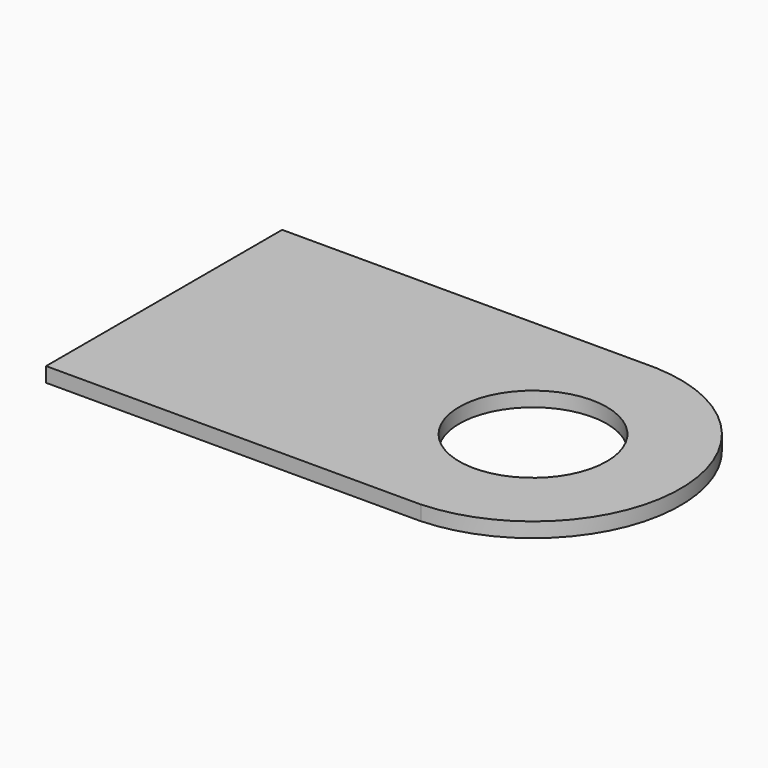
from build123d import *

# Parameters (mm, degrees)
CYLINDER011_R     = 0.5
CYLINDER011_DEPTH = 0.1
BOX006_W          = 2.54
BOX006_H          = 2
BOX006_DEPTH      = 0.1
CYLINDER010_R     = 0.5
CYLINDER010_DEPTH = 0.1
CYLINDER009_R     = 1
CYLINDER009_DEPTH = 0.1


with BuildPart() as cylinder011:
    # Cylinder011 → Cylinder011 (new body)
    with BuildSketch(Plane.XY.offset(1)):
        Circle(CYLINDER011_R)
    extrude(amount=CYLINDER011_DEPTH)


with BuildPart() as cut008:
    # Box006 → Box006 (new body)
    with BuildSketch(Plane(origin=(-2.5, -1, 1), x_dir=(1, 0, 0), z_dir=(0, 0, 1))):
        with Locations((1.27, 1)):
            Rectangle(BOX006_W, BOX006_H)
    extrude(amount=BOX006_DEPTH)

    # Cut008: cut Cylinder011
    add(cylinder011.part, mode=Mode.SUBTRACT)


with BuildPart() as cylinder010:
    # Cylinder010 → Cylinder010 (new body)
    with BuildSketch(Plane.XY.offset(1)):
        Circle(CYLINDER010_R)
    extrude(amount=CYLINDER010_DEPTH)


with BuildPart() as fusion003:
    # Cylinder009 → Cylinder009 (new body)
    with BuildSketch(Plane.XY.offset(1)):
        Circle(CYLINDER009_R)
    extrude(amount=CYLINDER009_DEPTH)

    # Cut007: cut Cylinder010
    add(cylinder010.part, mode=Mode.SUBTRACT)

    # Fusion003: union Cut008
    add(cut008.part)


with BuildPart() as fusion003_1:
    # Fusion003 placement: moved
    add(fusion003.part.moved(Location((0, -7.62, 5.5))))


solid = fusion003_1.part
